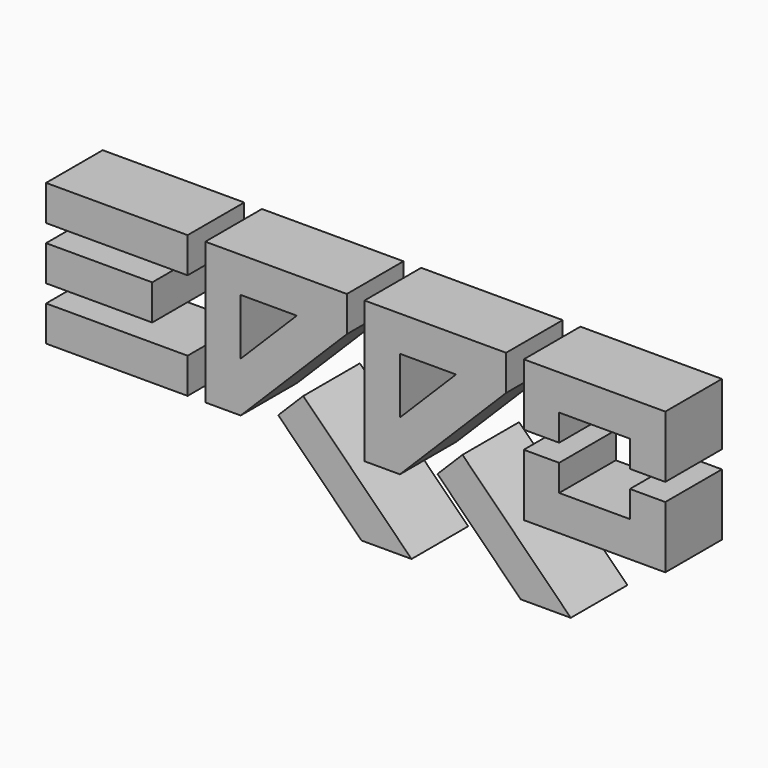
from build123d import *

# Parameters (mm, degrees)
F0_W     = 30
F0_H     = 10
F0_W_2   = 40
F1_DEPTH = 20


with BuildPart() as f1:
    # F0 (on Front) → F1 (new body)
    with BuildSketch(Plane.XZ):
        with Locations((-25, 20)):
            Rectangle(F0_W, F0_H)
        with Locations((-20, 35)):
            Rectangle(F0_W_2, F0_H)
        with Locations((-20, 5)):
            Rectangle(F0_W_2, F0_H)
        Polygon((5, 40), (5, 0), (15, 0), (22.071068, 7.071068), (29.142136, 14.142136), (45, 30), (45, 40), align=None)
        Polygon((15, 14.142136), (15, 30), (30.857864, 30), align=None, mode=Mode.SUBTRACT)
        Polygon((32.67767, 10.606602), (25.606602, 3.535534), (49.142136, -20), (63.284271, -20), align=None)
        Polygon((77.67767, 10.606602), (70.606602, 3.535534), (94.142136, -20), (108.284271, -20), align=None)
        Polygon((50, 40), (50, 0), (60, 0), (67.071068, 7.071068), (74.142136, 14.142136), (90, 30), (90, 40), align=None)
        Polygon((60, 14.142136), (60, 30), (75.857864, 30), align=None, mode=Mode.SUBTRACT)
        Polygon((135, 40), (95, 40), (95, 22.5), (105, 22.5), (105, 30), (125, 30), (125, 22.5), (135, 22.5), align=None)
        Polygon((95, 17.5), (95, 0), (135, 0), (135, 17.5), (125, 17.5), (125, 10), (105, 10), (105, 17.5), align=None)
    extrude(amount=F1_DEPTH)


solid = f1.part
